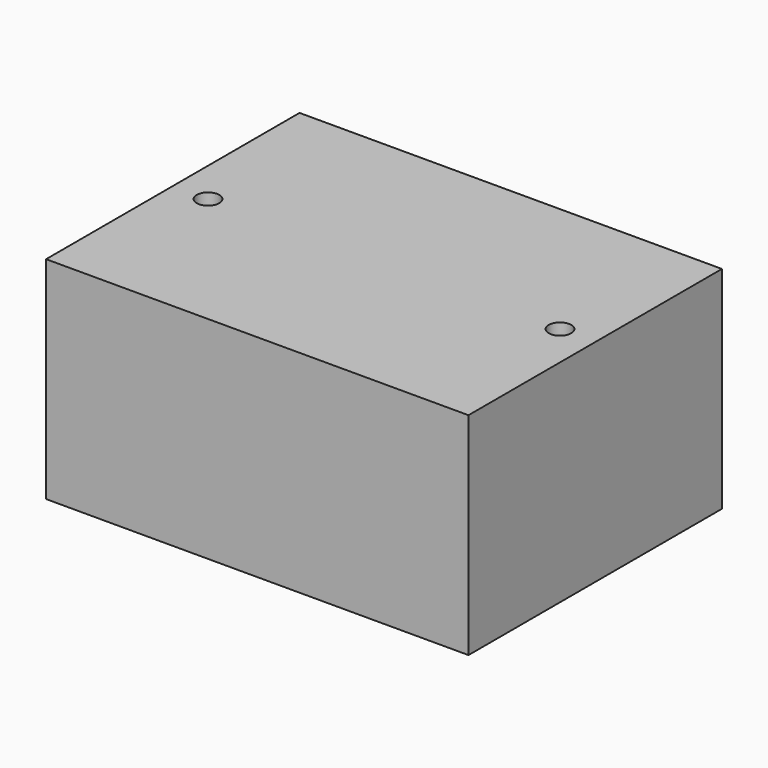
from build123d import *

# Parameters (mm, degrees)
SKETCH_W  = 60
SKETCH_H  = 45
SKETCH_R  = 1.6
PAD_DEPTH = 30


with BuildPart() as part:
    # Sketch → Pad (new body)
    with BuildSketch(Plane.XY):
        with Locations((30, 22.5)):
            Rectangle(SKETCH_W, SKETCH_H)
        with Locations((5, 22.5)):
            Circle(SKETCH_R, mode=Mode.SUBTRACT)
        with Locations((55, 22.5)):
            Circle(SKETCH_R, mode=Mode.SUBTRACT)
    extrude(amount=PAD_DEPTH)


solid = part.part
